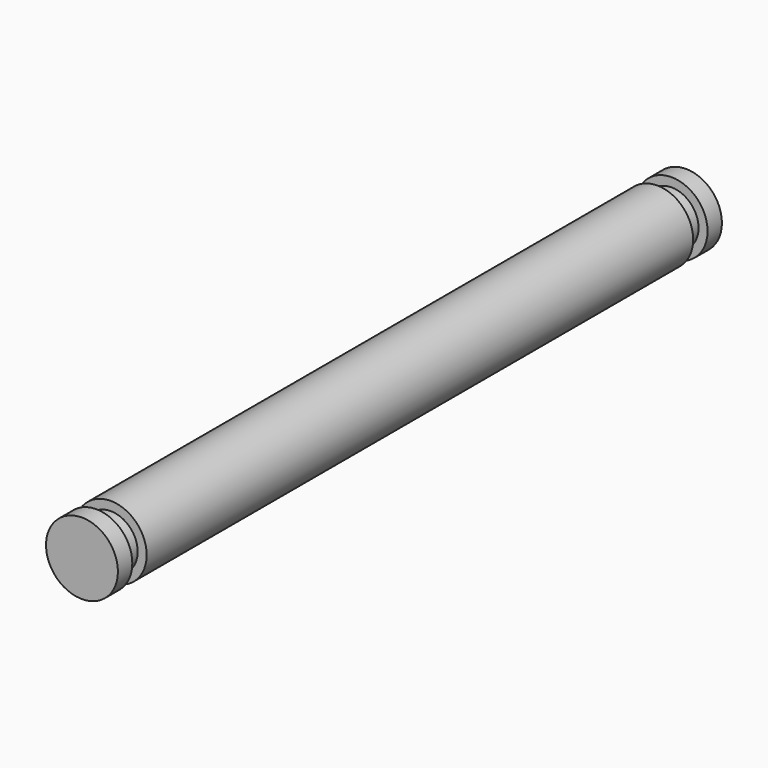
from build123d import *

# Parameters (mm, degrees)
F0_R     = 2
F1_DEPTH = 42
F2_W     = 1
F2_H     = 4.527544
F2_H_2   = 5.616845


with BuildPart() as f1:
    # F0 (on Front) → F1 (new body)
    with BuildSketch(Plane.XZ):
        Circle(F0_R)
    extrude(amount=F1_DEPTH)

    # F2 (on Right) → F3 (revolve, cut)
    with BuildSketch(Plane.YZ):
        with Locations((-40.5, 3.763772)):
            Rectangle(F2_W, F2_H)
        with Locations((-1.5, 4.308422)):
            Rectangle(F2_W, F2_H_2)
    revolve(axis=Axis((0, 0, 0), (0, 1, 0)), mode=Mode.SUBTRACT)


solid = f1.part
